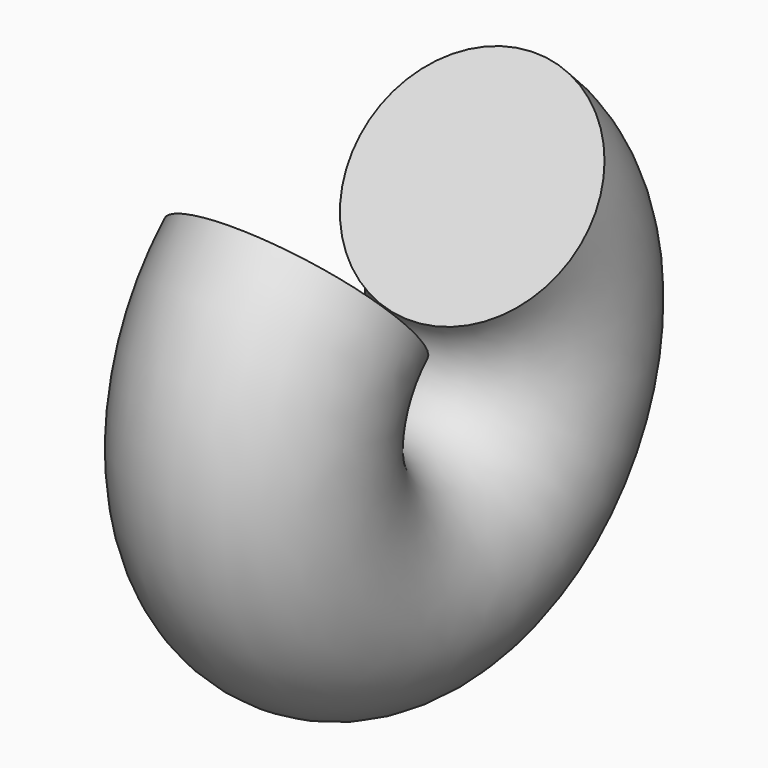
from build123d import *

# Parameters (mm, degrees)
F0_R          = 20.0660907916
F1_ANGLE_BACK = 137.4564660083
F1_ANGLE      = 274.9129320165


with BuildPart() as f1:
    # F0 (on Front) → F1 (revolve)
    with BuildSketch(Plane.XZ, mode=Mode.PRIVATE) as f1_sk:
        with Locations((61.2008571625, 22.6135775447)):
            Circle(F0_R)
    revolve(f1_sk.sketch.rotate(Axis((-85.5049565434, 0, 50.6903901696), (1, 0, 0)), -F1_ANGLE_BACK), axis=Axis((-85.5049565434, 0, 50.6903901696), (1, 0, 0)), revolution_arc=F1_ANGLE)


solid = f1.part
